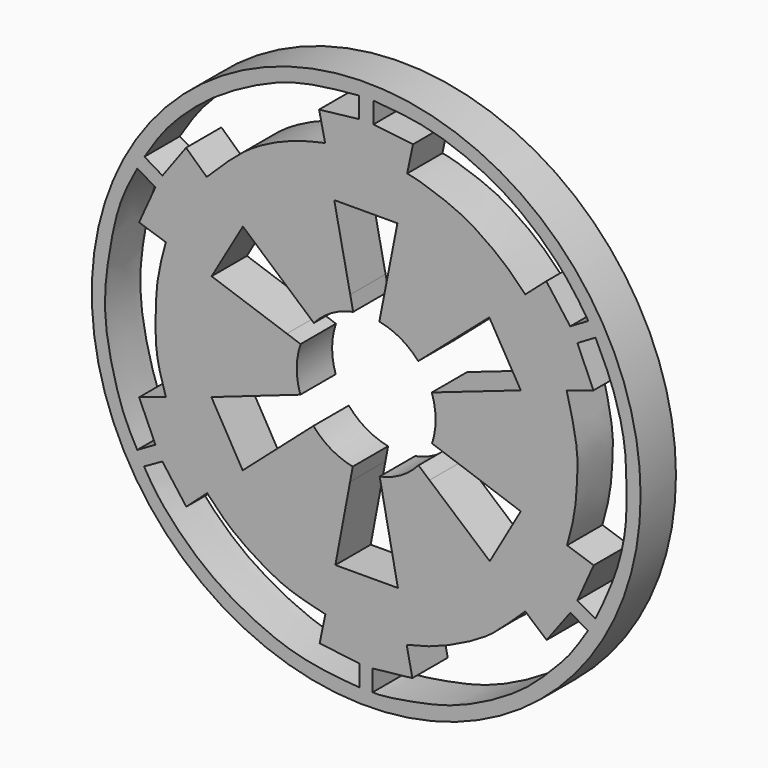
from build123d import *

# Parameters (mm, degrees)
F0_R     = 44.1766957939
F1_DEPTH = 7.112


with BuildPart() as f1:
    # F0 (on Front) → F1 (new body)
    with BuildSketch(Plane.XZ):
        Circle(F0_R)
        with BuildLine():
            Line((-35.7614904642, -21.8675043434), (-32.8106060624, -20.2139895409))
            Line((-32.8106060624, -20.2139895409), (-28.960403055, -25.3720507026))
            Line((-28.960403055, -25.3720507026), (-25.6024971604, -22.3448481411))
            add(Edge.make_bspline(
                [(-25.6024971604, -22.3448481411), (-24.4866790774, -23.5368590352), (-22.204068401, -25.9753360906), (-17.7013799325, -29.0917808365), (-12.9462521926, -31.7846215915), (-8.7627386027, -32.7983811652), (-6.5728682093, -33.3290360868)],
                knots=[0, 0, 0, 0, 0.2355446258, 0.4818497619, 0.7287729939, 1, 1, 1, 1], degree=3))
            Line((-6.5728682093, -33.3290360868), (-7.490250282, -37.7452149987))
            Line((-7.490250282, -37.7452149987), (-1.1156453984, -38.5228171945))
            Line((-1.1156453984, -38.5228171945), (-1.1156453984, -41.9061630964))
            add(Edge.make_bspline(
                [(-35.7614904642, -21.8675043434), (-35.2338448714, -22.7604678514), (-34.0865501542, -24.7020974776), (-31.2890173993, -28.1627256368), (-26.2777085453, -33.0596634812), (-20.0181100974, -37.0541543915), (-12.9599832666, -40.2091309454), (-6.7449542396, -41.4599766224), (-2.9534000516, -41.7605002287), (-1.1156453984, -41.9061630964)],
                knots=[0, 0, 0, 0, 0.1055322762, 0.2294658093, 0.3854964247, 0.5481129391, 0.7120197184, 0.8604168433, 1, 1, 1, 1], degree=3))
        make_face(mode=Mode.SUBTRACT)
        with BuildLine():
            Line((29.0394388139, -25.4001896828), (32.8793115914, -20.255388692))
            Line((32.8793115914, -20.255388692), (35.6775633991, -21.9343416393))
            add(Edge.make_bspline(
                [(1.0446998058, -41.9061630964), (1.4142405393, -41.9243444832), (2.4177240084, -41.9737158229), (6.2635475029, -41.3957263121), (9.9347318114, -40.7048681306), (14.3227087538, -39.6100702965), (19.5640532357, -37.2118500308), (23.7432665832, -34.7364439875), (27.2077761914, -32.1462858648), (31.2241198499, -28.0559070873), (33.2655694418, -25.6975315778), (34.8310406537, -23.2550853619), (35.6775633991, -21.9343416393)],
                knots=[0, 0, 0, 0, 0.0564376647, 0.1532558075, 0.2510560866, 0.3562412055, 0.4759055262, 0.5848852008, 0.689364245, 0.8068772402, 0.8955695847, 1, 1, 1, 1], degree=3))
            Line((1.0446998058, -41.9061630964), (1.0446998058, -38.5228171945))
            Line((1.0446998058, -38.5228171945), (7.4303904548, -37.824023515))
            Line((7.4303904548, -37.824023515), (6.5205958672, -33.3953052759))
            add(Edge.make_bspline(
                [(6.5205958672, -33.3953052759), (7.7992360224, -33.0926907352), (10.5186850112, -32.449081348), (15.2023600967, -30.4614472633), (19.6829738823, -27.9527868768), (22.4818586441, -25.4265122473), (24.5413294263, -23.4663723344), (25.6055921743, -22.453440319)],
                knots=[0, 0, 0, 0, 0.1907843597, 0.4057657128, 0.6200100275, 0.8036344211, 1, 1, 1, 1], degree=3))
            Line((25.6055921743, -22.453440319), (29.0394388139, -25.4001896828))
        make_face(mode=Mode.SUBTRACT)
        with BuildLine():
            Line((-33.9299067855, -18.2043351233), (-36.8553549051, -19.8832862079))
            add(Edge.make_bspline(
                [(-36.8683189154, 19.9755635113), (-37.8473096829, 18.1661673169), (-39.9227314212, 14.3303188905), (-41.4462825011, 6.4196994134), (-42.2825510016, -0.0305786633), (-41.7032306283, -6.7321583358), (-39.3782984167, -15.3221356766), (-37.6167947073, -18.5067030452), (-36.8553549051, -19.8832862079)],
                knots=[0, 0, 0, 0, 0.1604269609, 0.3400988172, 0.5016116203, 0.6671400202, 0.8561156381, 1, 1, 1, 1], degree=3))
            Line((-36.8683189154, 19.9755635113), (-33.9174345136, 18.3220505714))
            Line((-33.9174345136, 18.3220505714), (-36.5551263094, 12.4670509249))
            Line((-36.5551263094, 12.4670509249), (-32.259516418, 11.0363457352))
            add(Edge.make_bspline(
                [(-32.2571396828, -10.874543339), (-32.8195026762, -9.0678543769), (-33.9351137732, -5.4837596226), (-33.931475749, 0.0080421078), (-33.7498900918, 5.4994693455), (-32.7600555231, 9.1767965485), (-32.259516418, 11.0363457352)],
                knots=[0, 0, 0, 0, 0.2512797598, 0.4984867279, 0.7463949913, 1, 1, 1, 1], degree=3))
            Line((-32.2571396828, -10.874543339), (-36.5529023111, -12.326631695))
            Line((-36.5529023111, -12.326631695), (-33.9299067855, -18.2043351233))
        make_face(mode=Mode.SUBTRACT)
        with BuildLine():
            Line((2.1711112191, -10.9630858828), (2.6238481259, -13.2574641479))
            Line((2.6238481259, -13.2574641479), (5.0995848142, -25.8039925247))
            Line((5.0995848142, -25.8039925247), (-4.9646515399, -25.8305668831))
            Line((-4.9646515399, -25.8305668831), (-2.595354112, -13.2630717277))
            Line((-2.595354112, -13.2630717277), (-2.1620836942, -10.9648698168))
            ThreePointArc((-2.1620836942, -10.9648698168), (-5.6421371106, -9.6472413065), (-8.4966954033, -7.2601062819))
            Line((-8.4966954033, -7.2601062819), (-10.2534928431, -8.8040228951))
            Line((-10.2534928431, -8.8040228951), (-19.8817905039, -17.2656066716))
            Line((-19.8817905039, -17.2656066716), (-24.918647483, -8.5147023201))
            Line((-24.918647483, -8.5147023201), (-12.8144619972, -4.2935414687))
            Line((-12.8144619972, -4.2935414687), (-10.6060671452, -3.5233954803))
            ThreePointArc((-10.6060671452, -3.5233954803), (-11.1757611038, 0.0730735954), (-10.5590862727, 3.6617855053))
            Line((-10.5590862727, 3.6617855053), (-12.769271678, 4.4261309782))
            Line((-12.769271678, 4.4261309782), (-24.8842462897, 8.6158365011))
            Line((-24.8842462897, 8.6158365011), (-19.847387448, 17.3158627003))
            Line((-19.847387448, 17.3158627003), (-10.1853755393, 8.8827394279))
            Line((-10.1853755393, 8.8827394279), (-8.4234761864, 7.3449319219))
            ThreePointArc((-8.4234761864, 7.3449319219), (-5.5652229601, 9.6918145569), (-2.0975513649, 10.9773974271))
            Line((-2.0975513649, 10.9773974271), (-2.567479075, 13.2684959894))
            Line((-2.567479075, 13.2684959894), (-5.1443860866, 25.8320197463))
            Line((-5.1443860866, 25.8320197463), (5.0252802209, 25.857816598))
            Line((5.0252802209, 25.857816598), (2.5644704001, 13.2690778198))
            Line((2.5644704001, 13.2690778198), (2.1158141978, 10.9738920297))
            ThreePointArc((2.1158141978, 10.9738920297), (5.5380334394, 9.7073766603), (8.3698544885, 7.4059781151))
            Line((8.3698544885, 7.4059781151), (10.1363668293, 8.9386241739))
            Line((10.1363668293, 8.9386241739), (19.8115911335, 17.3329580575))
            Line((19.8115911335, 17.3329580575), (24.8837284744, 8.6329318583))
            Line((24.8837284744, 8.6329318583), (12.7654122958, 4.4372495467))
            Line((12.7654122958, 4.4372495467), (10.5554972691, 3.6721183807))
            ThreePointArc((10.5554972691, 3.6721183807), (11.0197825178, 1.8620873396), (11.176, 0))
            ThreePointArc((11.176, 0), (11.0313792921, -1.7921068369), (10.6012600367, -3.5378329008))
            Line((10.6012600367, -3.5378329008), (12.8098029544, -4.3074218382))
            Line((12.8098029544, -4.3074218382), (24.8837284744, -8.5147023201))
            Line((24.8837284744, -8.5147023201), (19.8977496475, -17.2002650797))
            Line((19.8977496475, -17.2002650797), (10.1939157276, -8.8729373243))
            Line((10.1939157276, -8.8729373243), (8.419132603, -7.3499103541))
            ThreePointArc((8.419132603, -7.3499103541), (5.5948257706, -9.6747558417), (2.1711112191, -10.9630858828))
        make_face(mode=Mode.SUBTRACT)
        with BuildLine():
            add(Edge.make_bspline(
                [(-35.6981419027, 22.0360960811), (-34.6319390776, 23.7268379349), (-32.484600451, 27.1320017598), (-27.9146496351, 31.5478201486), (-23.8299996259, 34.7154749769), (-17.6296681743, 38.2638751465), (-10.4512096865, 41.0851595996), (-4.3688276658, 41.648307375), (-1.1853148462, 41.9430583715)],
                knots=[0, 0, 0, 0, 0.1566037405, 0.3154008348, 0.4604208672, 0.6286242725, 0.8056223063, 1, 1, 1, 1], degree=3))
            Line((-1.1853148462, 41.9430583715), (-1.1853148462, 38.5973155499))
            Line((-1.1853148462, 38.5973155499), (-7.5810640119, 37.8660485148))
            Line((-7.5810640119, 37.8660485148), (-6.6097197123, 33.4410332143))
            add(Edge.make_bspline(
                [(-25.6765991733, 22.4260363519), (-24.3333432454, 23.7606678176), (-21.7133494369, 26.3638397849), (-17.8323338836, 29.4743374528), (-11.8037332381, 32.3002630954), (-8.2803244864, 33.0741154161), (-6.6097197123, 33.4410332143)],
                knots=[0, 0, 0, 0, 0.2489268939, 0.4855269254, 0.7560654369, 1, 1, 1, 1], degree=3))
            Line((-25.6765991733, 22.4260363519), (-28.9963893592, 25.4952777177))
            Line((-28.9963893592, 25.4952777177), (-32.7981300652, 20.3062668443))
            Line((-32.7981300652, 20.3062668443), (-35.6981419027, 22.0360960811))
        make_face(mode=Mode.SUBTRACT)
        with BuildLine():
            Line((36.574523896, 12.4182878062), (34.0049043298, 18.3071866632))
            Line((34.0049043298, 18.3071866632), (36.9141213596, 20.0184900314))
            add(Edge.make_bspline(
                [(36.9141213596, 20.0184900314), (37.8938705727, 18.0039971875), (39.8850886304, 13.9097917787), (41.7594651651, 6.715363759), (41.8651560314, 1.397564654), (42.0610136055, -4.9001243802), (40.4255886988, -12.4247769104), (38.0893073425, -17.3422025728), (36.8986204267, -19.8483709246)],
                knots=[0, 0, 0, 0, 0.1662522108, 0.3378868794, 0.484123471, 0.6417151571, 0.8173999576, 1, 1, 1, 1], degree=3))
            Line((36.8986204267, -19.8483709246), (33.9986123145, -18.1694179773))
            Line((33.9986123145, -18.1694179773), (36.6232842207, -12.3396720737))
            Line((36.6232842207, -12.3396720737), (32.3421731591, -10.9006436542))
            add(Edge.make_bspline(
                [(32.3421731591, -10.9006436542), (32.8221995517, -9.1892580119), (33.7840723972, -5.7599978652), (34.001178244, -0.020287475), (34.0713324341, 2.1855798208), (33.5478638453, 6.0205740931), (32.7250879437, 9.2526276599), (32.2753861547, 11.0191600397)],
                knots=[0, 0, 0, 0, 0.2254438377, 0.4517424647, 0.5945217901, 0.7783791722, 1, 1, 1, 1], degree=3))
            Line((32.2753861547, 11.0191600397), (36.574523896, 12.4182878062))
        make_face(mode=Mode.SUBTRACT)
        with BuildLine():
            Line((1.1531068012, 38.5973155499), (1.1531068012, 41.9790335))
            add(Edge.make_bspline(
                [(1.1531068012, 41.9790335), (3.4652329605, 41.7997953198), (8.0343743744, 41.4455912082), (14.3842373709, 39.6875593474), (20.8604600663, 36.7642913447), (26.7090201677, 32.7528107578), (32.3502142279, 27.2160608198), (34.6669622808, 23.6708778177), (35.7565619051, 22.0035277307)],
                knots=[0, 0, 0, 0, 0.1661180396, 0.3282765568, 0.4958824441, 0.6653985731, 0.8426321806, 1, 1, 1, 1], degree=3))
            Line((35.7565619051, 22.0035277307), (32.842528075, 20.2946811914))
            Line((32.842528075, 20.2946811914), (28.9931260049, 25.4392083734))
            Line((28.9931260049, 25.4392083734), (25.6114080548, 22.4712118506))
            add(Edge.make_bspline(
                [(25.6114080548, 22.4712118506), (24.5168671139, 23.6090766646), (22.278164541, 25.9363910587), (17.811051605, 29.0791098257), (14.3612187846, 31.0432744902), (8.7915992704, 32.9829132835), (7.1957498764, 33.2913618908), (6.5884473734, 33.408742398)],
                knots=[0, 0, 0, 0, 0.211003518, 0.4315728183, 0.6286921316, 0.8586983216, 1, 1, 1, 1], degree=3))
            Line((6.5884473734, 33.408742398), (7.529664319, 37.858132273))
            Line((7.529664319, 37.858132273), (1.1531068012, 38.5973155499))
        make_face(mode=Mode.SUBTRACT)
    extrude(amount=F1_DEPTH)


solid = f1.part
